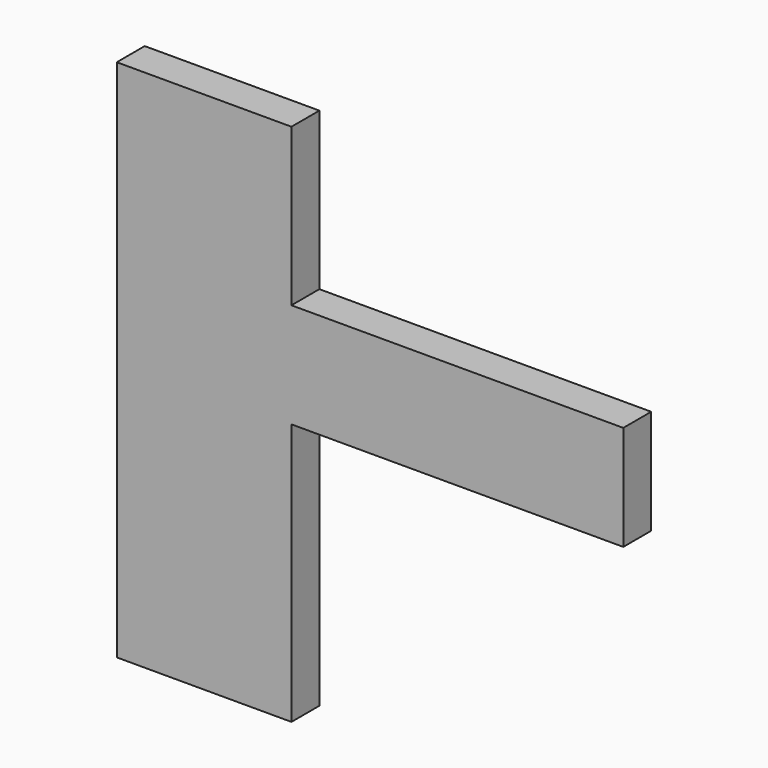
from build123d import *

# Parameters (mm, degrees)
F0_W     = 63.5
F0_H     = 76.2
F0_W_2   = 241.3
F1_DEPTH = 25.4


with BuildPart() as f1:
    # F0 (on Front) → F1 (new body)
    with BuildSketch(Plane.XZ):
        with Locations((31.75, 38.1)):
            Rectangle(F0_W, F0_H)
        Polygon((63.5, 0), (0, 0), (0, 76.2), (63.5, 76.2), (63.5, 190.5), (-63.5, 190.5), (-63.5, -190.5), (63.5, -190.5), align=None)
        with Locations((184.15, 38.1)):
            Rectangle(F0_W_2, F0_H)
    extrude(amount=F1_DEPTH)


solid = f1.part
